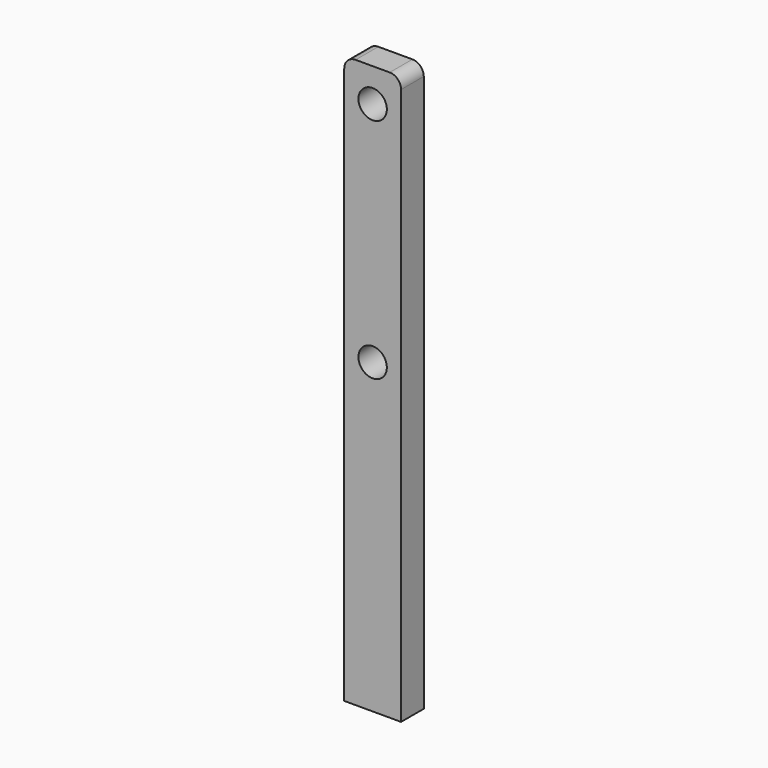
from build123d import *

# Parameters (mm, degrees)
F0_W     = 10
F0_H     = 100
F0_R     = 2.5
F1_DEPTH = 5
F2_R     = 2


with BuildPart() as f1:
    # F0 (on Front) → F1 (new body)
    with BuildSketch(Plane.XZ):
        with Locations((-18.299257, 16.999996)):
            Rectangle(F0_W, F0_H)
        with Locations((-18.299257, 21.11316)):
            Circle(F0_R, mode=Mode.SUBTRACT)
        with Locations((-18.299257, 61.11316)):
            Circle(F0_R, mode=Mode.SUBTRACT)
    extrude(amount=-F1_DEPTH)

    # F2
    f2_edges = [f1.edges().sort_by_distance(p)[0] for p in [
        (-13.299257, 2.5, 66.999996),
        (-23.299257, 2.5, 66.999996),
    ]]
    fillet(f2_edges, radius=F2_R)


solid = f1.part
